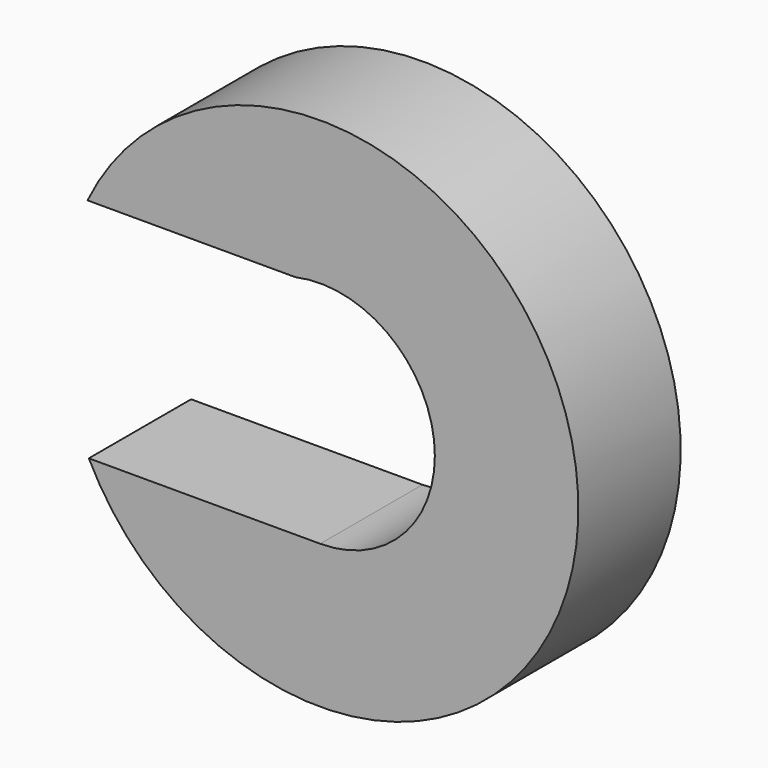
from build123d import *

# Parameters (mm, degrees)
F1_DEPTH = 25.4


with BuildPart() as f1:
    # F0 (on Front) → F1 (new body)
    with BuildSketch(Plane.XZ):
        with BuildLine():
            ThreePointArc((-45.9678303927, -22.7815092248), (11.6989896867, -49.9516990089), (51.3033974856, 0))
            ThreePointArc((51.3033974856, 0), (11.4099635295, 50.0185098321), (-46.2282065968, 22.2484046263))
            Line((-46.2282065968, 22.2484046263), (-4.8995565251, 22.2484046263))
            ThreePointArc((-4.8995565251, 22.2484046263), (14.2719632564, 17.7569205485), (22.7815092248, 0))
            ThreePointArc((22.7815092248, 0), (16.1089596585, -16.1089596585), (0, -22.7815092248))
            Line((0, -22.7815092248), (-45.9678303927, -22.7815092248))
        make_face()
    extrude(amount=F1_DEPTH)


solid = f1.part
